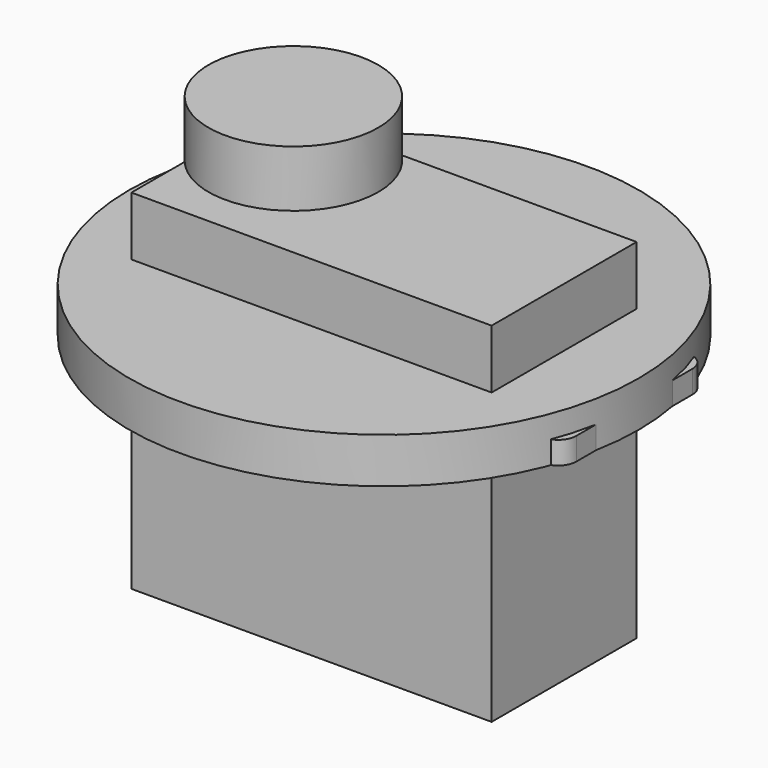
from build123d import *

# Parameters (mm, degrees)
F0_W          = 40.386
F0_H          = 20.32
F1_DEPTH      = 27.432
F1_DEPTH_BACK = 11.684
F2_R          = 1.905
F3_DEPTH      = 2.54
F4_R          = 2.921
F5_DEPTH      = 5.334
F6_R          = 9.525
F7_DEPTH      = 3.302
F7_DEPTH_BACK = 3.048
F8_R          = 28.575
F9_DEPTH      = 5.08


with BuildPart() as f1:
    # F0 (on Top) → F1 (new body, two sides)
    with BuildSketch(Plane.XY) as f1_sk:
        Rectangle(F0_W, F0_H)
    extrude(amount=-F1_DEPTH)
    extrude(f1_sk.sketch, amount=F1_DEPTH_BACK)

    # F2 (on Top) → F3 (join)
    with BuildSketch(Plane.XY):
        with BuildLine():
            Line((26.035, 10.16), (-26.035, 10.16))
            ThreePointArc((-26.035, 10.16), (-27.4718409794, 9.5648409794), (-28.067, 8.128))
            Line((-28.067, 8.128), (-28.067, -8.128))
            ThreePointArc((-28.067, -8.128), (-27.4718409794, -9.5648409794), (-26.035, -10.16))
            Line((-26.035, -10.16), (26.035, -10.16))
            ThreePointArc((26.035, -10.16), (27.4718409794, -9.5648409794), (28.067, -8.128))
            Line((28.067, -8.128), (28.067, 8.128))
            ThreePointArc((28.067, 8.128), (27.4718409794, 9.5648409794), (26.035, 10.16))
        make_face()
        with Locations((-23.495, -4.445)):
            Circle(F2_R, mode=Mode.SUBTRACT)
        with Locations((23.495, -4.445)):
            Circle(F2_R, mode=Mode.SUBTRACT)
        with Locations((-23.495, 4.445)):
            Circle(F2_R, mode=Mode.SUBTRACT)
        with Locations((23.495, 4.445)):
            Circle(F2_R, mode=Mode.SUBTRACT)
    extrude(amount=F3_DEPTH)

    # F4 (on face) → F5 (join)
    with BuildSketch(Plane.XY.offset(11.684)):
        with Locations((-10.16, 0)):
            Circle(F4_R)
    extrude(amount=F5_DEPTH)

    # F6 (on face) → F7 (join, two sides)
    with BuildSketch(Plane.XY.offset(17.018)) as f7_sk:
        with Locations((-10.16, 0)):
            Circle(F6_R)
    extrude(amount=F7_DEPTH)
    extrude(f7_sk.sketch, amount=-F7_DEPTH_BACK)


with BuildPart() as f9:
    # F8 (on Top) → F9 (new body)
    with BuildSketch(Plane.XY):
        Circle(F8_R)
    extrude(amount=F9_DEPTH)


solid = Compound([f1.part, f9.part])
